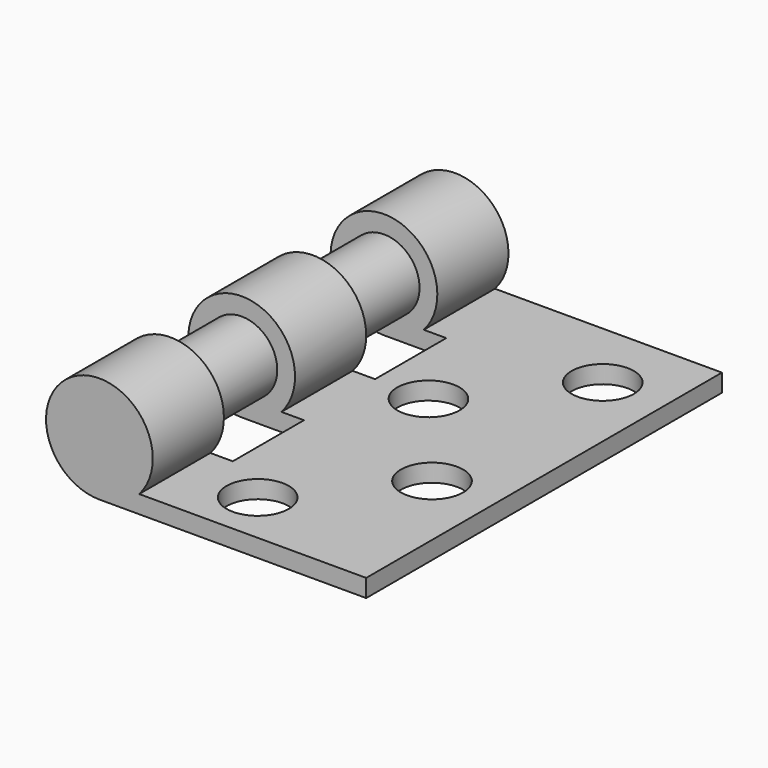
from build123d import *

# Parameters (mm, degrees)
F0_R     = 4
F1_DEPTH = 50
F2_R     = 3.5
F3_DEPTH = 2.001
F4_W     = 15
F4_H     = 10
F5_DEPTH = 25
F6_R     = 4
F7_DEPTH = 50


with BuildPart() as f1:
    # F0 (on Front) → F1 (new body)
    with BuildSketch(Plane.XZ):
        with BuildLine():
            Line((26.190159, 30.504479), (0.662295, 30.504479))
            ThreePointArc((0.662295, 30.504479), (-6.259331, 39.981705), (-3.809841, 28.504479))
            Line((-3.809841, 28.504479), (26.190159, 28.504479))
            Line((26.190159, 28.504479), (26.190159, 30.504479))
        make_face()
        with Locations((-3.809841, 34.504479)):
            Circle(F0_R, mode=Mode.SUBTRACT)
    extrude(amount=F1_DEPTH)

    # F2 (on face) → F3 (cut, through all)
    with BuildSketch(Plane.XY.offset(30.504479)):
        with Locations((19.190159, -32)):
            Circle(F2_R)
        with Locations((9.190159, -44)):
            Circle(F2_R)
        with Locations((9.190159, -20)):
            Circle(F2_R)
        with Locations((19.190159, -8)):
            Circle(F2_R)
    extrude(amount=-F3_DEPTH, mode=Mode.SUBTRACT)

    # F4 (on face) → F5 (cut)
    with BuildSketch(Plane(origin=(0, 0, 28.504479), x_dir=(1, 0, 0), z_dir=(0, 0, -1))):
        with Locations((-4.309841, 35)):
            Rectangle(F4_W, F4_H)
        with Locations((-4.309841, 15)):
            Rectangle(F4_W, F4_H)
    extrude(amount=-F5_DEPTH, mode=Mode.SUBTRACT)

    # F6 (on face) → F7 (join)
    with BuildSketch(Plane(origin=(0, 0, 0), x_dir=(-1, 0, 0), z_dir=(0, 1, 0))):
        with Locations((3.809841, 34.504479)):
            Circle(F6_R)
    extrude(amount=-F7_DEPTH)


solid = f1.part
